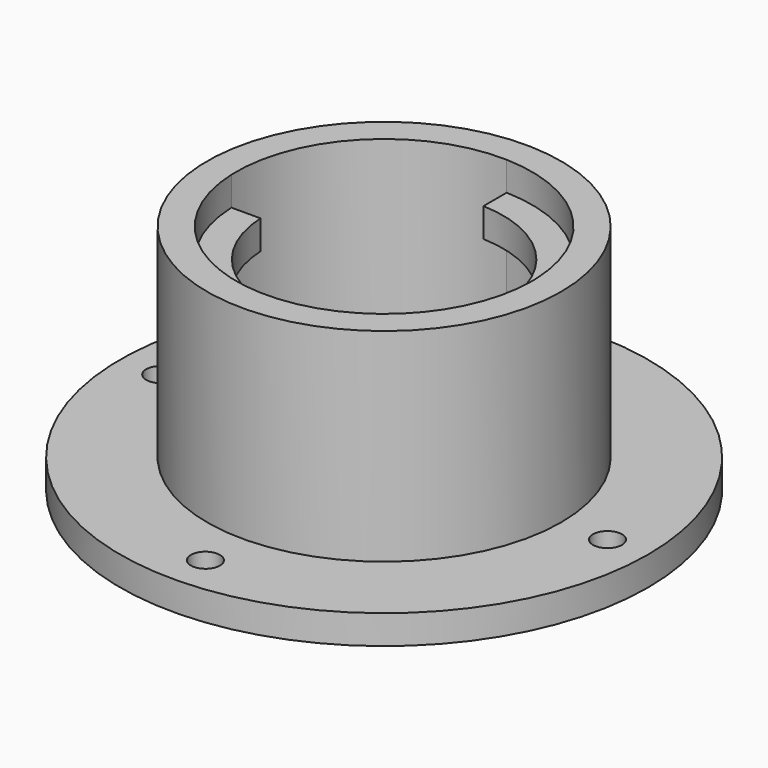
from build123d import *

# Parameters (mm, degrees)
F0_R     = 45.5
F0_R_2   = 30.5
F1_DEPTH = 5
F2_DEPTH = 40
F3_D     = 5
F3_DEPTH = 12
F3_TIP   = 1.5021515476
F4_START = 30
F4_DEPTH = 5


with BuildPart() as f1:
    # F0 (on Top) → F1 (new body)
    with BuildSketch(Plane.XY):
        Circle(F0_R)
        Circle(F0_R_2, mode=Mode.SUBTRACT)
    extrude(amount=F1_DEPTH)

    # F0 (on Top) → F2 (join)
    with BuildSketch(Plane.XY):
        Circle(F0_R_2)
        with BuildLine():
            ThreePointArc((25.4803305747, 1.0013759549), (25.4950821695, 0.5007845568), (25.5, 0))
            ThreePointArc((25.5, 0), (17.6934423844, -18.3627910893), (-0.9464389481, -25.4824302867))
            ThreePointArc((-0.9464389481, -25.4824302867), (-17.9941841556, -18.0681857577), (-25.4783314262, -1.051012719))
            ThreePointArc((-25.4783314262, -1.051012719), (-18.1421082442, 17.9196514602), (0.7366046437, 25.4893588307))
            ThreePointArc((0.7366046437, 25.4893588307), (17.937314442, 18.1246448409), (25.4803305747, 1.0013759549))
        make_face(mode=Mode.SUBTRACT)
    extrude(amount=F2_DEPTH)

    # F3
    with Locations(Plane(origin=(0, 0, 0), x_dir=(1, 0, 0), z_dir=(0, 0, -1))):
        with Locations((38.5, 0), (-38.5, 0), (0, 38.5), (0, -38.5)):
            Hole(F3_D / 2, depth=F3_DEPTH)
            with Locations((0, 0, -(F3_DEPTH + F3_TIP / 2))):  # 118° drill point
                Cone(0, F3_D / 2, F3_TIP, mode=Mode.SUBTRACT)

    # F0 (on Top) → F4 (join)
    with BuildSketch(Plane.XY.offset(F4_START)):
        with BuildLine():
            Line((20.4755279833, 1.0013759549), (25.4803305747, 1.0013759549))
            ThreePointArc((25.4803305747, 1.0013759549), (17.937314442, 18.1246448409), (0.7366046437, 25.4893588307))
            Line((0.7366046437, 25.4893588307), (0.7366046437, 20.486761911))
            ThreePointArc((0.7366046437, 20.486761911), (14.4016911893, 14.5890812215), (20.4755279833, 1.0013759549))
        make_face()
        with BuildLine():
            ThreePointArc((-25.4783314262, -1.051012719), (-17.9941841556, -18.0681857577), (-0.9464389481, -25.4824302867))
            Line((-0.9464389481, -25.4824302867), (-0.9464389481, -20.4781408658))
            ThreePointArc((-0.9464389481, -20.4781408658), (-14.4586253852, -14.5326581179), (-20.4730401324, -1.051012719))
            Line((-20.4730401324, -1.051012719), (-25.4783314262, -1.051012719))
        make_face()
    extrude(amount=F4_DEPTH)


solid = f1.part
